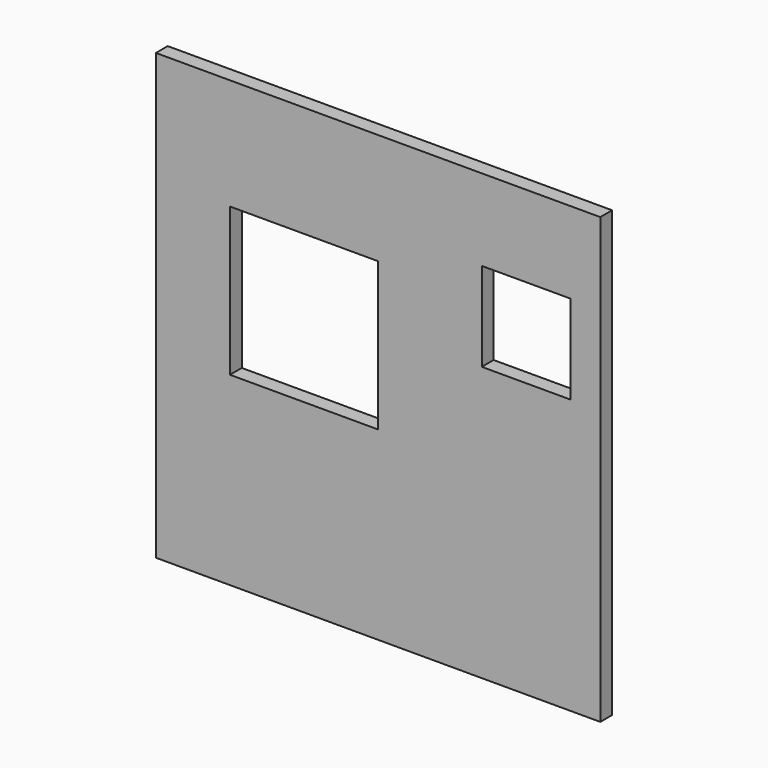
from build123d import *

# Parameters (mm, degrees)
F0_W     = 3000
F0_H     = 3000
F1_DEPTH = 50
F2_W     = 1000
F2_H     = 1000
F2_W_2   = 600
F2_H_2   = 600
F3_DEPTH = 100.001


with BuildPart() as f1:
    # F0 (on Front) → F1 (new body, symmetric)
    with BuildSketch(Plane.XZ):
        with Locations((0, 1500)):
            Rectangle(F0_W, F0_H)
    extrude(amount=F1_DEPTH, both=True)

    # F2 (on face) → F3 (cut, through all)
    with BuildSketch(Plane.XZ.offset(50)):
        with Locations((-500, 1750)):
            Rectangle(F2_W, F2_H)
        with Locations((1000, 2150)):
            Rectangle(F2_W_2, F2_H_2)
    extrude(amount=-F3_DEPTH, mode=Mode.SUBTRACT)


solid = f1.part
